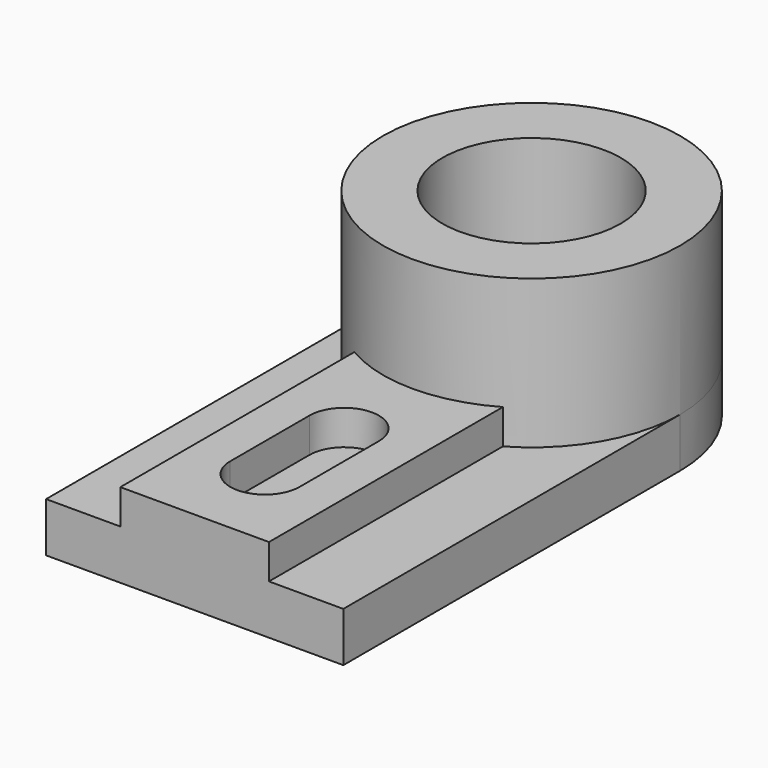
from build123d import *

# Parameters (mm, degrees)
SKETCH001_R   = 30
SKETCH001_R_2 = 18
PAD_DEPTH     = 30
PAD001_DEPTH  = 10
PAD002_DEPTH  = 7


with BuildPart() as part:
    # Sketch001 (on Sketch) → Pad (new body)
    with BuildSketch(Plane.XY):
        Circle(SKETCH001_R)
        Circle(SKETCH001_R_2, mode=Mode.SUBTRACT)
    extrude(amount=PAD_DEPTH)

    # Sketch002 (on Sketch) → Pad001 (join)
    with BuildSketch(Plane.XY):
        with BuildLine():
            ThreePointArc((30, 4.5e-05), (0, 30), (-30, 4.5e-05))
            Line((-30, 4.5e-05), (-30, -85))
            Line((30, -85), (-30, -85))
            Line((30, 4.5e-05), (30, -85))
        make_face()
    extrude(amount=-PAD001_DEPTH)

    # Sketch003 (on Sketch) → Pad002 (join)
    with BuildSketch(Plane.XY):
        with BuildLine():
            ThreePointArc((-15.008511, -25.975846), (-0.009828, -29.999998), (14.991489, -25.985674))
            Line((14.991489, -85), (14.991489, -25.985674))
            Line((14.991489, -85), (-15.008511, -85))
            Line((-15.008511, -25.975846), (-15.008511, -85))
        make_face()
        with BuildLine():
            ThreePointArc((7, -47.28644), (0, -40.28644), (-7, -47.28644))
            Line((-7, -47.28644), (-7, -67.28644))
            ThreePointArc((-7, -67.28644), (0, -74.28644), (7, -67.28644))
            Line((7, -47.28644), (7, -67.28644))
        make_face(mode=Mode.SUBTRACT)
    extrude(amount=PAD002_DEPTH)


solid = part.part
